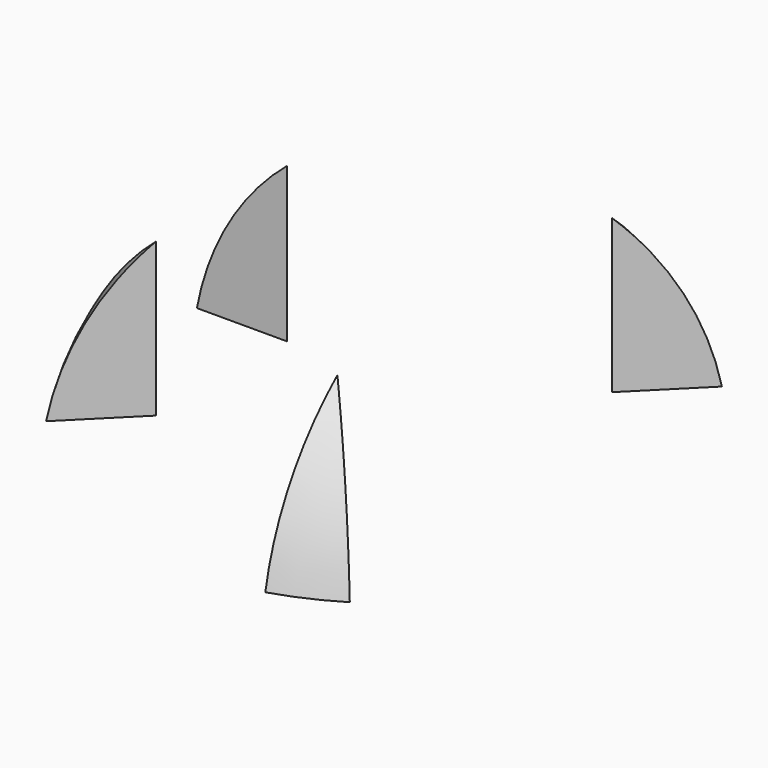
from build123d import *

# Parameters (mm, degrees)
F4_DEPTH = 3048.001
F7_DEPTH = 3048.001


with BuildPart() as f1:
    # F0 (on Front) → F1 (revolve)
    with BuildSketch(Plane.XZ):
        with BuildLine():
            Line((-3601.157502, 0), (0, 0))
            Line((0, 0), (0, 3017.52))
            ThreePointArc((0, 3017.52), (-2349.136134, 2163.417313), (-3601.157502, 0))
        make_face()
    revolve(axis=Axis((0, 0, 1508.76), (0, 0, 1)))

    # F3 (on offset) → F4 (cut, through all)
    with BuildSketch(Plane.XY.offset(3048)):
        Polygon((1066.8, -1066.8), (5574.511623, -1066.8), (5574.511623, 1066.8), (1066.8, 1066.8), (1066.8, 4918.191671), (-1066.8, 4918.191671), (-1066.8, 1066.8), (-5574.511623, 1066.8), (-5574.511623, -1066.8), (-1066.8, -1066.8), (-1066.8, -4918.191671), (1066.8, -4918.191671), align=None)
    extrude(amount=-F4_DEPTH, mode=Mode.SUBTRACT)

    # F6 (on offset) → F7 (cut, through all)
    with BuildSketch(Plane.XY.offset(3048)):
        Polygon((3254.531535, -4439.533621), (5050.582759, -2643.482397), (2397.233965, 9.866397), (5584.974607, 3197.607039), (3788.923382, 4993.658263), (601.182741, 1805.917621), (-2103.190639, 4510.291001), (-3899.241863, 2714.239776), (-1194.868484, 9.866397), (-4624.669167, -3419.934287), (-2768.824077, -5156.191644), (601.182741, -1786.184827), align=None)
    extrude(amount=-F7_DEPTH, mode=Mode.SUBTRACT)


solid = f1.part
